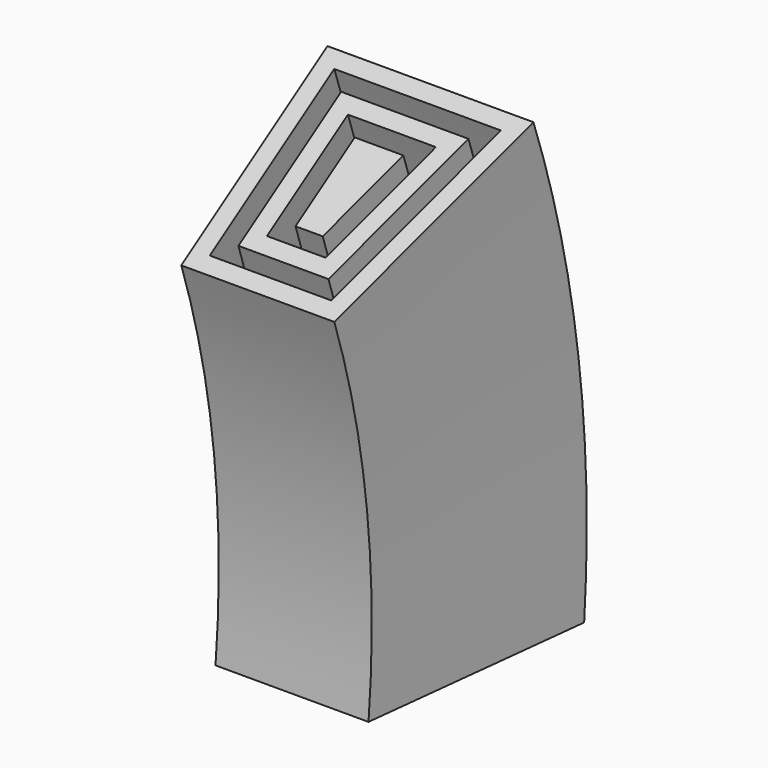
from build123d import *


with BuildPart() as f2:
    # F2: sweep along a path in F1
    with BuildLine(Plane.YZ) as f2_path:
        ThreePointArc((9.7761358373, 0), (8.8319964441, 37.8292788096), (0, 74.625223875))
    # F0 (on Top) → F2 (sweep)
    with BuildSketch(Plane.XY):
        Polygon((14.0881141583, -18.5642899235), (18.6023998519, 21.7761358373), (-16.524239274, 21.7761358373), (-12.0099535803, -18.5642899235), align=None)
        Polygon((-13.1697994197, 18.7761358373), (15.2479599976, 18.7761358373), (11.4051028685, -15.5642899235), (-9.3269422906, -15.5642899235), align=None, mode=Mode.SUBTRACT)
        Polygon((8.7220915787, -12.5642899235), (11.8935201433, 15.7761358373), (-9.8153595654, 15.7761358373), (-6.6439310008, -12.5642899235), align=None)
        Polygon((-3.960919711, -9.5642899235), (-6.460919711, 12.7761358373), (8.539080289, 12.7761358373), (6.039080289, -9.5642899235), align=None, mode=Mode.SUBTRACT)
        Polygon((3.3560689992, -6.5642899235), (5.1846404346, 9.7761358373), (-3.1064798567, 9.7761358373), (-1.2779084213, -6.5642899235), align=None)
    sweep(path=f2_path.line)


solid = f2.part
